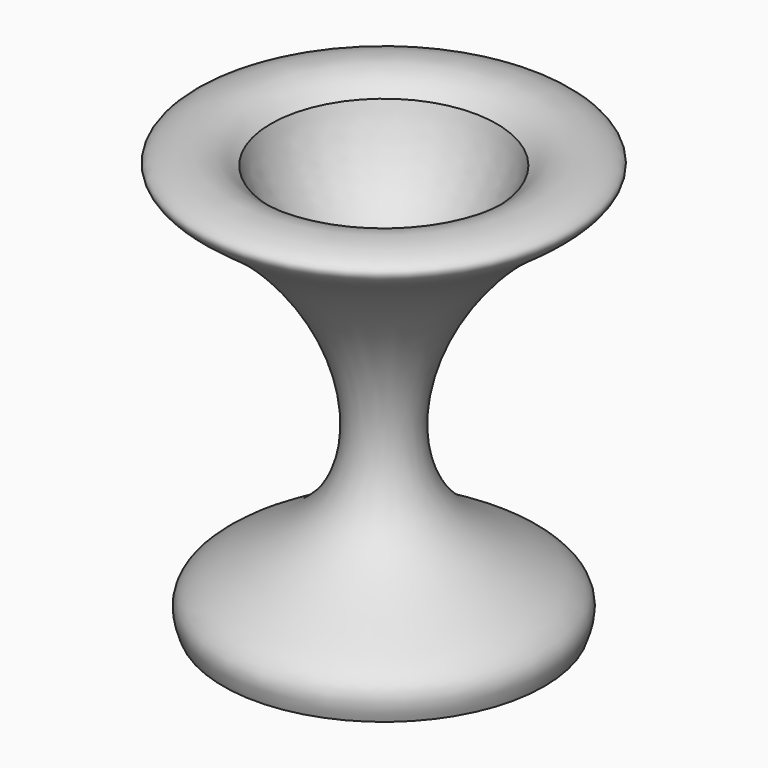
from build123d import *


with BuildPart() as f1:
    # F0 (on Front) → F1 (revolve)
    with BuildSketch(Plane.XZ):
        with BuildLine():
            Line((-28.8743749261, -36.8896313012), (0, -36.8896313012))
            Line((0, -36.8896313012), (0, 17.7048271871))
            add(Edge.make_bspline(
                [(-20.322356991, 36.2119694513), (-15.1930221217, 17.7048271871), (0, 17.7048271871)],
                knots=[5.0567669442, 5.0567669442, 5.0567669442, 6.2831853072, 6.2831853072, 6.2831853072], degree=2, weights=[1, 0.8178053647, 1]))
            add(Edge.make_bspline(
                [(-20.322356991, 36.2119694513), (-23.0539908294, 38.8053547933), (-27.425591125, 40.1132878763), (-37.4339702075, 36.8905458283), (-23.9117024605, 29.2488253574), (-5.7938237593, 9.5656055449), (-4.2519906464, -20.0153947831), (-31.5492494802, -28.9837278299), (-29.5727547138, -34.9856110325), (-28.8743749261, -36.8896313012)],
                knots=[0, 0, 0, 0, 0.1118474953, 0.2065430995, 0.3298620799, 0.5324775763, 0.7236824921, 0.9077637631, 1, 1, 1, 1], degree=3))
        make_face()
    revolve(axis=Axis((0, 0, 3.3694002777), (0, 0, -1)))


solid = f1.part
